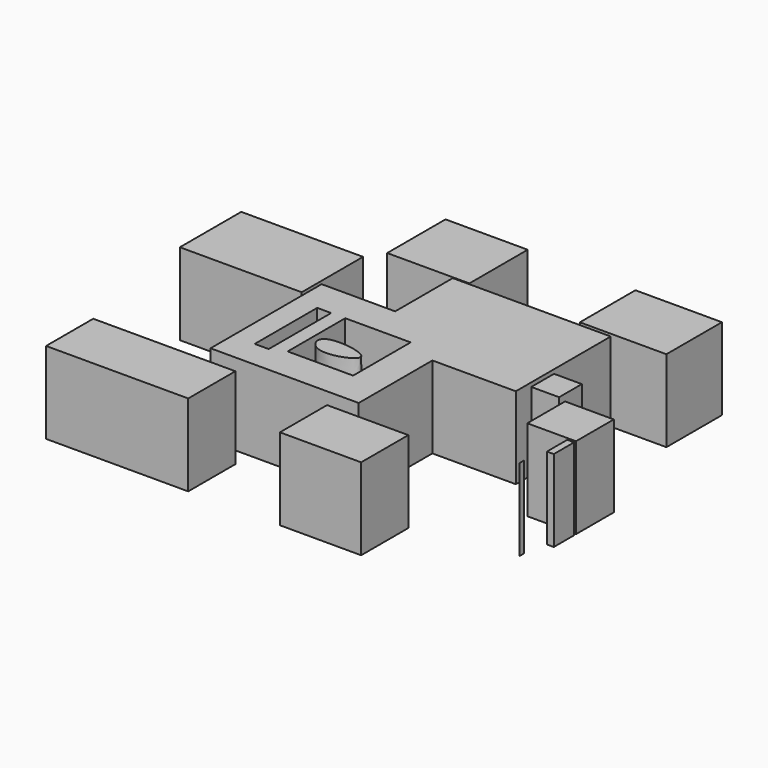
from build123d import *

# Parameters (mm, degrees)
F0_W      = 71.8751400709
F0_H      = 65.4248073697
F1_DEPTH  = 25.4
F2_W      = 22.8386623785
F2_H      = 22.3337542266
F3_DEPTH  = 25.401
F4_W      = 25.8953208104
F4_H      = 28.5988273099
F5_DEPTH  = 25.401
F6_W      = 20.3064456582
F6_H      = 22.3295912147
F7_DEPTH  = 25.401
F8_W      = 4.3360479176
F8_H      = 24.2358855903
F9_DEPTH  = 25.401
F10_W     = 97.7910701185
F10_H     = 18.2947292924
F11_DEPTH = 25.4
F12_W     = 28.4608709626
F12_H     = 29.4496640563
F13_DEPTH = 25.401
F14_W     = 25.5147358403
F14_H     = 22.6351767778
F15_DEPTH = 25.4
F16_W     = 26.8525015563
F16_H     = 21.5431787074
F17_DEPTH = 25.4
F18_W     = 8.6342580616
F18_H     = 8.8252546266
F19_DEPTH = 25.4
F18_W_2   = 15.1156596839
F18_H_2   = 14.6633193363
F18_W_3   = 2.1220184863
F18_H_3   = 7.8927390277
F18_W_4   = 0.0067055225
F18_H_4   = 1.7926245928
F20_W     = 37.8104783595
F20_H     = 23.8008620217
F21_DEPTH = 25.4
F23_DEPTH = 25.4


with BuildPart() as f1:
    # F0 (on Top) → F1 (new body)
    with BuildSketch(Plane.XY):
        Rectangle(F0_W, F0_H)
    extrude(amount=F1_DEPTH)

    # F2 (on face) → F3 (cut, through all)
    with BuildSketch(Plane.XY.offset(25.4)):
        with Locations((-24.5182388462, 21.5455265716)):
            Rectangle(F2_W, F2_H)
    extrude(amount=-F3_DEPTH, mode=Mode.SUBTRACT)

    # F4 (on face) → F5 (cut, through all)
    with BuildSketch(Plane.XY.offset(25.4)):
        with Locations((22.9899096303, -18.4129900299)):
            Rectangle(F4_W, F4_H)
    extrude(amount=-F5_DEPTH, mode=Mode.SUBTRACT)

    # F6 (on face) → F7 (cut, through all)
    with BuildSketch(Plane.XY.offset(25.4)):
        with Locations((-10.1532228291, -11.1647956073)):
            Rectangle(F6_W, F6_H)
    extrude(amount=-F7_DEPTH, mode=Mode.SUBTRACT)

    # F8 (on face) → F9 (cut, through all)
    with BuildSketch(Plane.XY.offset(25.4)):
        with Locations((-26.8425736576, -12.1179427952)):
            Rectangle(F8_W, F8_H)
    extrude(amount=-F9_DEPTH, mode=Mode.SUBTRACT)


with BuildPart() as f11:
    # F10 (on Top) → F11 (new body)
    with BuildSketch(Plane.XY):
        with Locations((-18.9329413697, -47.5115664303)):
            Rectangle(F10_W, F10_H)
    extrude(amount=F11_DEPTH)

    # F12 (on face) → F13 (cut, through all)
    with BuildSketch(Plane.XY.offset(25.4)):
        with Locations((-9.4812272582, -53.0890338123)):
            Rectangle(F12_W, F12_H)
    extrude(amount=-F13_DEPTH, mode=Mode.SUBTRACT)


with BuildPart() as f15:
    # F14 (on Top) → F15 (new body)
    with BuildSketch(Plane.XY):
        with Locations((-20.98152088, 44.3829745054)):
            Rectangle(F14_W, F14_H)
    extrude(amount=F15_DEPTH)


with BuildPart() as f17:
    # F16 (on Top) → F17 (new body)
    with BuildSketch(Plane.XY):
        with Locations((38.8674447313, 44.6308199316)):
            Rectangle(F16_W, F16_H)
    extrude(amount=F17_DEPTH)


with BuildPart() as f19:
    # F18 (on Top) → F19 (new body)
    with BuildSketch(Plane.XY):
        with Locations((41.7577605695, 4.4126273133)):
            Rectangle(F18_W, F18_H)
    extrude(amount=F19_DEPTH)


with BuildPart() as f19b:
    # F18 (on Top) → F19, piece 2 (new body)
    with BuildSketch(Plane.XY):
        with Locations((56.1508778483, -8.1598557299)):
            Rectangle(F18_W_2, F18_H_2)
    extrude(amount=F19_DEPTH)


with BuildPart() as f19c:
    # F18 (on Top) → F19, piece 3 (new body)
    with BuildSketch(Plane.XY):
        with Locations((62.6503732055, -20.1549362391)):
            Rectangle(F18_W_3, F18_H_3)
    extrude(amount=F19_DEPTH)


with BuildPart() as f19d:
    # F18 (on Top) → F19, piece 4 (new body)
    with BuildSketch(Plane.XY):
        with Locations((60.1851865649, -32.1715809405)):
            Rectangle(F18_W_4, F18_H_4)
    extrude(amount=F19_DEPTH)


with BuildPart() as f21:
    # F20 (on Top) → F21 (new body)
    with BuildSketch(Plane.XY):
        with Locations((-55.9609811753, 15.953773167)):
            Rectangle(F20_W, F20_H)
    extrude(amount=F21_DEPTH)


with BuildPart() as f23:
    # F22 (on Top) → F23 (new body)
    with BuildSketch(Plane.XY):
        with BuildLine():
            add(Edge.make_bspline(
                [(-17.4706317484, -11.7181073874), (-19.1868801709, -13.0558307579), (-15.9209529822, -19.9308273896), (3.3955781074, -12.5960314776), (-14.8929109318, -9.708912603), (-17.4706317484, -11.7181073874)],
                knots=[0, 0, 0, 0, 0.2580559353, 0.6124126626, 1, 1, 1, 1], degree=3))
        make_face()
    extrude(amount=F23_DEPTH)


solid = Compound([f1.part, f11.part, f15.part, f17.part, f19.part, f19b.part, f19c.part, f19d.part, f21.part, f23.part])
